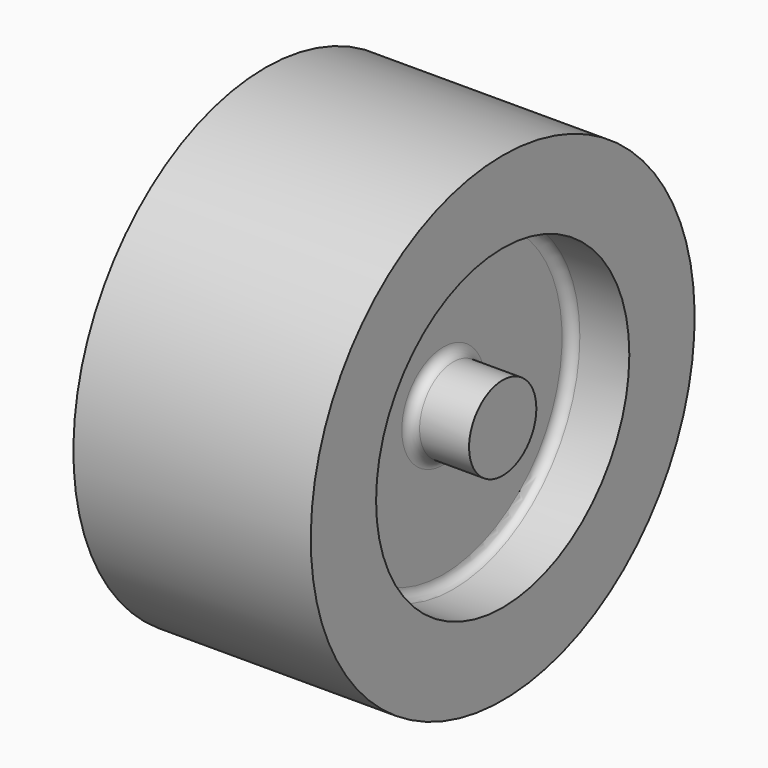
from build123d import *


with BuildPart() as f1:
    # F0 (on Front) → F1 (revolve)
    with BuildSketch(Plane.XZ):
        with BuildLine():
            Line((-3, 32), (-3, 30))
            Line((-3, 30), (0, 30))
            Line((0, 30), (3, 30))
            Line((3, 30), (3, 32))
            Line((3, 32), (18, 32))
            Line((18, 32), (18, 33))
            Line((18, 33), (21, 33))
            Line((21, 33), (21, 32))
            Line((21, 32), (24, 32))
            Line((24, 32), (24, 40.5))
            Line((24, 40.5), (14, 40.5))
            ThreePointArc((14, 40.5), (12.585786, 41.085786), (12, 42.5))
            Line((12, 42.5), (12, 62))
            ThreePointArc((12, 62), (12.585786, 63.414214), (14, 64))
            Line((14, 64), (24, 64))
            Line((24, 64), (24, 80.5))
            Line((24, 80.5), (0, 80.5))
            Line((0, 80.5), (-24, 80.5))
            Line((-24, 80.5), (-24, 64))
            Line((-24, 64), (-14, 64))
            ThreePointArc((-14, 64), (-12.585786, 63.414214), (-12, 62))
            Line((-12, 62), (-12, 42.5))
            ThreePointArc((-12, 42.5), (-12.585786, 41.085786), (-14, 40.5))
            Line((-14, 40.5), (-24, 40.5))
            Line((-24, 40.5), (-24, 32))
            Line((-24, 32), (-21, 32))
            Line((-21, 32), (-21, 33))
            Line((-21, 33), (-18, 33))
            Line((-18, 33), (-18, 32))
            Line((-18, 32), (-3, 32))
        make_face()
    revolve(axis=Axis((10.5, 0, 32), (1, 0, 0)))


solid = f1.part
